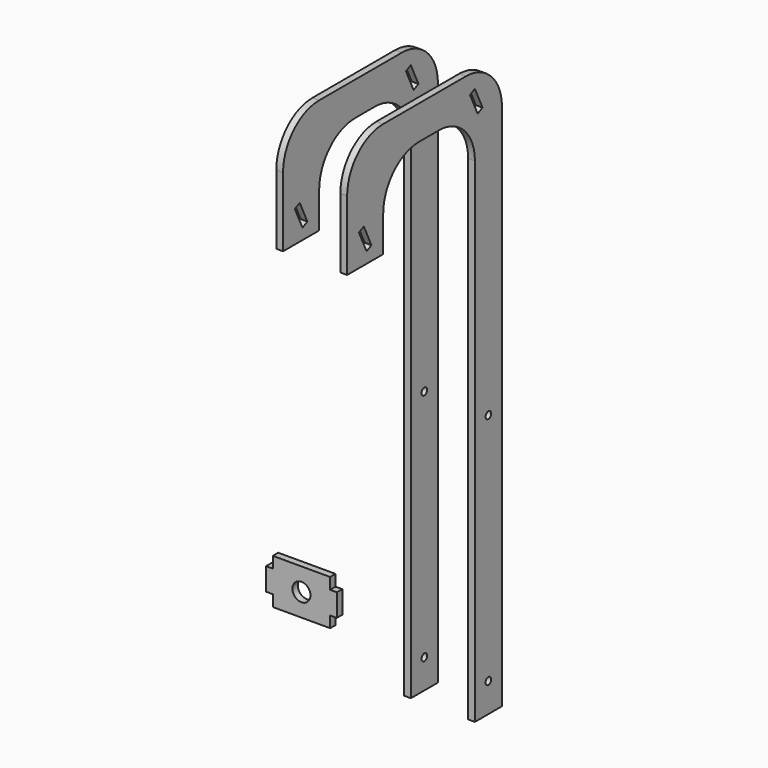
from build123d import *

# Parameters (mm, degrees)
F2_DEPTH  = 3
F3_R      = 20
F4_R      = 1.565
F5_DEPTH  = 25
F7_DEPTH  = 25
F10_W     = 3
F10_H     = 10
F11_DEPTH = 3
F12_R     = 4
F13_DEPTH = 25


with BuildPart() as f2:
    # F1 (on offset) → F2 (new body)
    with BuildSketch(Plane.YZ.offset(12.7)):
        Polygon((0, 239), (0, 0), (15, 0), (15, 254), (-70.8, 254), (-70.8, 203.2), (-50.8, 203.2), (-50.8, 239), align=None)
    extrude(amount=F2_DEPTH)

    # F3
    f3_edges = [f2.edges().sort_by_distance(p)[0] for p in [
        (14.2, -70.8, 254),
        (14.2, 15, 254),
        (14.2, -50.8, 239),
        (14.2, 0, 239),
    ]]
    fillet(f3_edges, radius=F3_R)

    # F4 (on face) → F5 (cut)
    with BuildSketch(Plane.YZ.offset(15.7)):
        with Locations((7.5, 12.935)):
            Circle(F4_R)
        with Locations((7.5, 116.685)):
            Circle(F4_R)
    extrude(amount=-F5_DEPTH, mode=Mode.SUBTRACT)

    # F6 (on face) → F7 (cut)
    with BuildSketch(Plane.YZ.offset(15.7)):
        Polygon((0, 247.095909), (-2.718923, 245.828054), (1.507259, 236.764976), (4.226183, 238.032831), align=None)
        Polygon((-61.55363, 218.39298), (-64.272553, 217.125125), (-60.04637, 208.062048), (-57.327447, 209.329902), align=None)
    extrude(amount=-F7_DEPTH, mode=Mode.SUBTRACT)


with BuildPart() as f8_1:
    # F8: instance of F2
    add(f2.part.mirror(Plane.YZ))


with BuildPart() as f11:
    # F10 (on offset) → F11 (new body)
    with BuildSketch(Plane.XZ.offset(-9)):
        Polygon((-53.288891, 26.69288), (-53.288891, 31.69288), (-78.688891, 31.69288), (-78.688891, 26.69288), (-78.688891, 16.69288), (-78.688891, 11.69288), (-53.288891, 11.69288), (-53.288891, 16.69288), align=None)
        with Locations((-51.788891, 21.69288)):
            Rectangle(F10_W, F10_H)
        with Locations((-80.188891, 21.69288)):
            Rectangle(F10_W, F10_H)
    extrude(amount=F11_DEPTH)

    # F12 (on face) → F13 (cut)
    with BuildSketch(Plane(origin=(0, 9, 0), x_dir=(-1, 0, 0), z_dir=(0, 1, 0))):
        with Locations((65.988891, 21.69288)):
            Circle(F12_R)
    extrude(amount=-F13_DEPTH, mode=Mode.SUBTRACT)


solid = Compound([f2.part, f8_1.part, f11.part])
